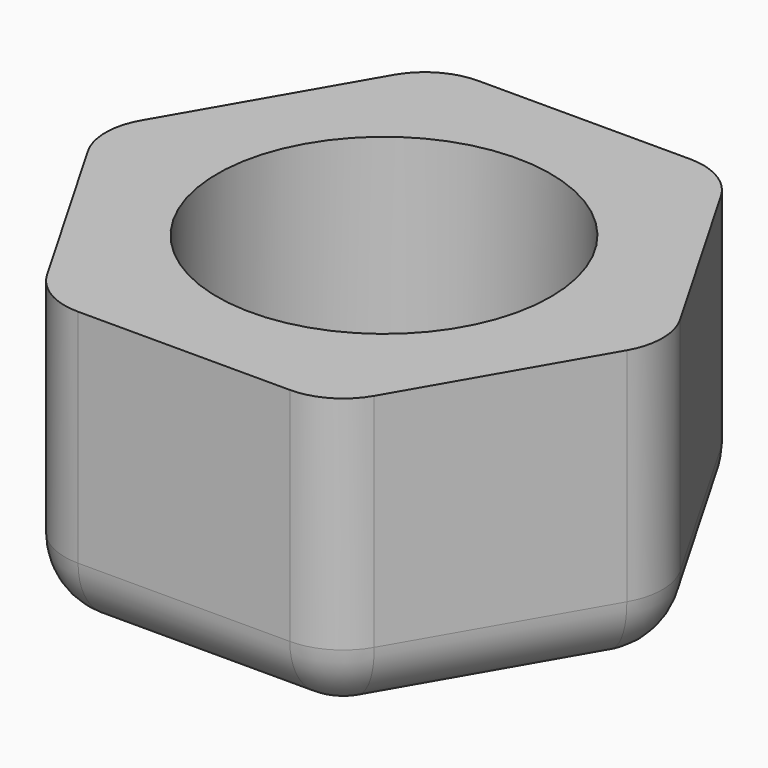
from build123d import *

# Parameters (mm, degrees)
F0_R     = 7.9375
F1_DEPTH = 13.716
F2_R     = 3.175
F3_SCALE = 1.4


with BuildPart() as f1:
    # F0 (on Top) → F1 (new body)
    with BuildSketch(Plane.XY):
        Polygon((6.8740766425, 11.90625), (-6.8740766425, 11.90625), (-13.7481532851, 0), (-6.8740766425, -11.90625), (6.8740766425, -11.90625), (13.7481532851, 0), align=None)
        Circle(F0_R, mode=Mode.SUBTRACT)
    extrude(amount=F1_DEPTH)

    # F2
    f2_edges = [f1.edges().sort_by_distance(p)[0] for p in [
        (-13.748153, 0, 6.858),
        (10.311115, -5.953125, 0),
        (13.748153, 0, 6.858),
        (6.874077, -11.90625, 6.858),
        (-6.874077, -11.90625, 6.858),
        (6.874077, 11.90625, 6.858),
        (-6.874077, 11.90625, 6.858),
        (0, -11.90625, 0),
        (-10.311115, -5.953125, 0),
        (-10.311115, 5.953125, 0),
        (0, 11.90625, 0),
        (10.311115, 5.953125, 0),
    ]]
    fillet(f2_edges, radius=F2_R)


with BuildPart() as f1_1:
    # F3: moved
    add(f1.part.scale(F3_SCALE))


solid = f1_1.part
